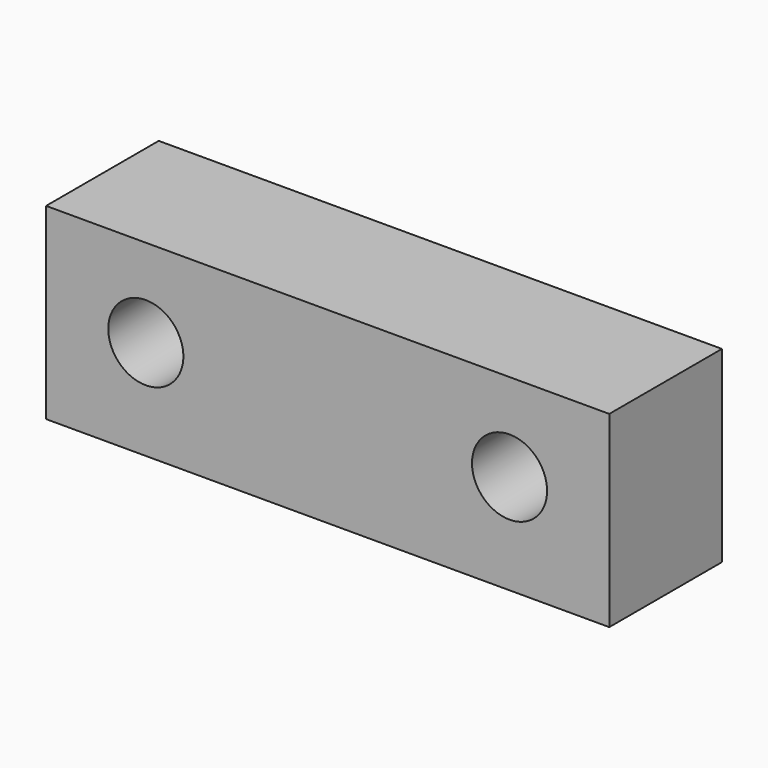
from build123d import *

# Parameters (mm, degrees)
F0_W     = 152.4
F0_H     = 50.8
F1_DEPTH = 38.1
F2_R     = 6.7437
F3_DEPTH = 9.525
F4_R     = 10.16
F5_DEPTH = 152.4


with BuildPart() as f1:
    # F0 (on Front) → F1 (new body)
    with BuildSketch(Plane.XZ):
        with Locations((0, -25.4)):
            Rectangle(F0_W, F0_H)
    extrude(amount=F1_DEPTH)

    # F2 (on face) → F3 (cut)
    with BuildSketch(Plane(origin=(0, 0, 0), x_dir=(-1, 0, 0), z_dir=(0, 1, 0))):
        with Locations((49.2125, -23.8125)):
            Circle(F2_R)
        with Locations((-49.2125, -23.8125)):
            Circle(F2_R)
    extrude(amount=-F3_DEPTH, mode=Mode.SUBTRACT)

    # F4 (on face) → F5 (cut)
    with BuildSketch(Plane(origin=(0, -9.525, 0), x_dir=(-1, 0, 0), z_dir=(0, 1, 0))):
        with Locations((-49.2125, -23.8125)):
            Circle(F4_R)
        with Locations((49.2125, -23.8125)):
            Circle(F4_R)
    extrude(amount=-F5_DEPTH, mode=Mode.SUBTRACT)


solid = f1.part
